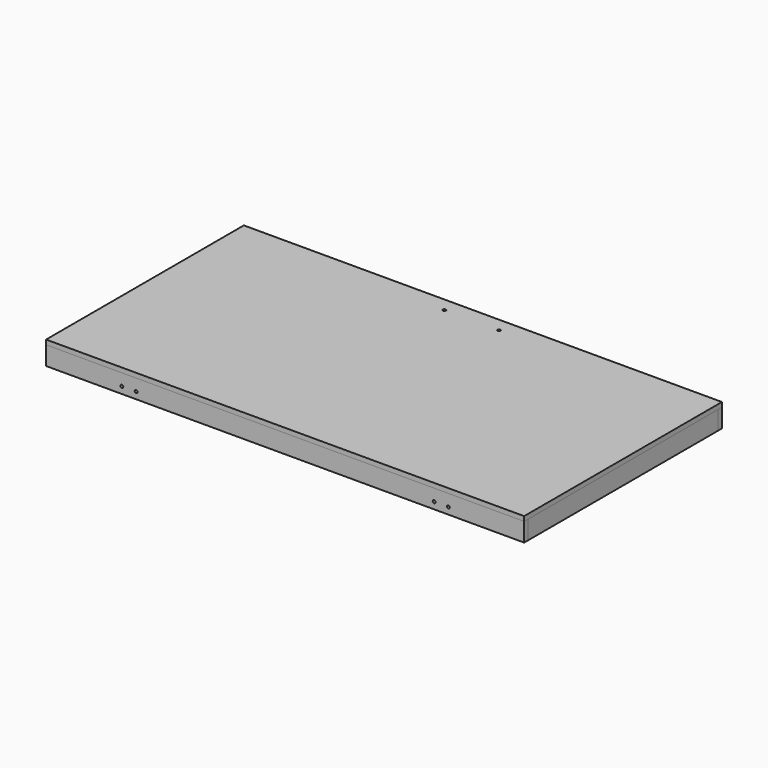
from build123d import *

# Parameters (mm, degrees)
F0_W      = 1025
F0_H      = 530
F1_DEPTH  = 10
F2_W      = 1025
F2_H      = 10
F3_DEPTH  = 40
F5_W      = 10
F5_H      = 510
F6_DEPTH  = 40
F9_D      = 6
F9_DEPTH  = 15
F9_TIP    = 1.8025818571
F10_W     = 1005
F10_H     = 10
F11_DEPTH = 26
F13_D     = 6.5
F13_DEPTH = 15
F13_TIP   = 1.9527970118


with BuildPart() as f1:
    # F0 (on Top) → F1 (new body)
    with BuildSketch(Plane.XY):
        Rectangle(F0_W, F0_H)
    extrude(amount=F1_DEPTH)

    # F13
    with Locations(Plane.XY.offset(10)):
        with Locations((-58.5, 235), (58.5, 235)):
            Hole(F13_D / 2, depth=F13_DEPTH)
            with Locations((0, 0, -(F13_DEPTH + F13_TIP / 2))):  # 118° drill point
                Cone(0, F13_D / 2, F13_TIP, mode=Mode.SUBTRACT)


with BuildPart() as f3:
    # F2 (on face) → F3 (new body)
    with BuildSketch(Plane(origin=(0, 0, 0), x_dir=(1, 0, 0), z_dir=(0, 0, -1))):
        with Locations((0, 260)):
            Rectangle(F2_W, F2_H)
    extrude(amount=F3_DEPTH)


with BuildPart() as f4_1:
    # F4: copy of F3
    add(f3.part.moved(Location((0, 520, 0))))


with BuildPart() as f6:
    # F5 (on face) → F6 (new body)
    with BuildSketch(Plane(origin=(0, 0, 0), x_dir=(1, 0, 0), z_dir=(0, 0, -1))):
        with Locations((507.5, 0)):
            Rectangle(F5_W, F5_H)
    extrude(amount=F6_DEPTH)


with BuildPart() as f7_1:
    # F7: copy of F6
    add(f6.part.moved(Location((-1015, 0, 0))))


with BuildPart() as f3_1:
    add(f3.part)

    # F9
    with Locations(Plane.XZ.offset(265)):
        with Locations((-350, -25.5), (-319.5, -25.5), (319.5, -25.5), (350, -25.5)):
            Hole(F9_D / 2, depth=F9_DEPTH)
            with Locations((0, 0, -(F9_DEPTH + F9_TIP / 2))):  # 118° drill point
                Cone(0, F9_D / 2, F9_TIP, mode=Mode.SUBTRACT)


with BuildPart() as f11:
    # F10 (on face) → F11 (new body)
    with BuildSketch(Plane(origin=(0, 0, 0), x_dir=(1, 0, 0), z_dir=(0, 0, -1))):
        with Locations((0, -250)):
            Rectangle(F10_W, F10_H)
    extrude(amount=F11_DEPTH)


solid = Compound([f1.part, f4_1.part, f6.part, f7_1.part, f3_1.part, f11.part])
